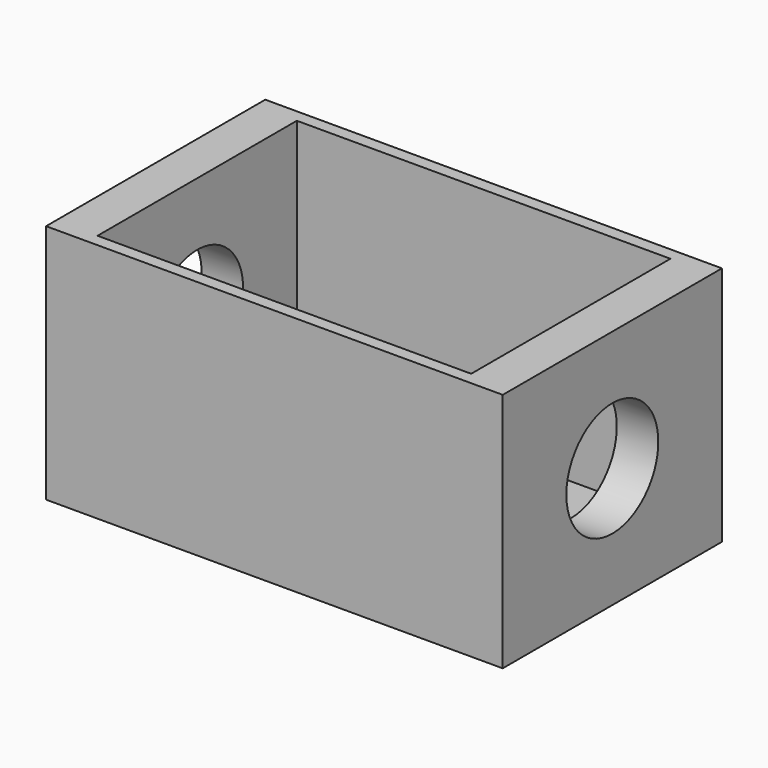
from build123d import *

# Parameters (mm, degrees)
F0_W     = 110
F0_H     = 66
F1_DEPTH = 58
F2_W     = 90
F2_H     = 60
F3_DEPTH = 55
F5_R     = 13.843831
F6_DEPTH = 115


with BuildPart() as f1:
    # F0 (on Top) → F1 (new body)
    with BuildSketch(Plane.XY):
        Rectangle(F0_W, F0_H)
    extrude(amount=F1_DEPTH)

    # F2 (on face) → F3 (cut)
    with BuildSketch(Plane.XY.offset(58)):
        Rectangle(F2_W, F2_H)
    extrude(amount=-F3_DEPTH, mode=Mode.SUBTRACT)

    # F5 (on face) → F6 (cut)
    with BuildSketch(Plane(origin=(-55, 0, 0), x_dir=(0, -1, 0), z_dir=(-1, 0, 0))):
        with Locations((0, 28.994452)):
            Circle(F5_R)
    extrude(amount=-F6_DEPTH, mode=Mode.SUBTRACT)


solid = f1.part
